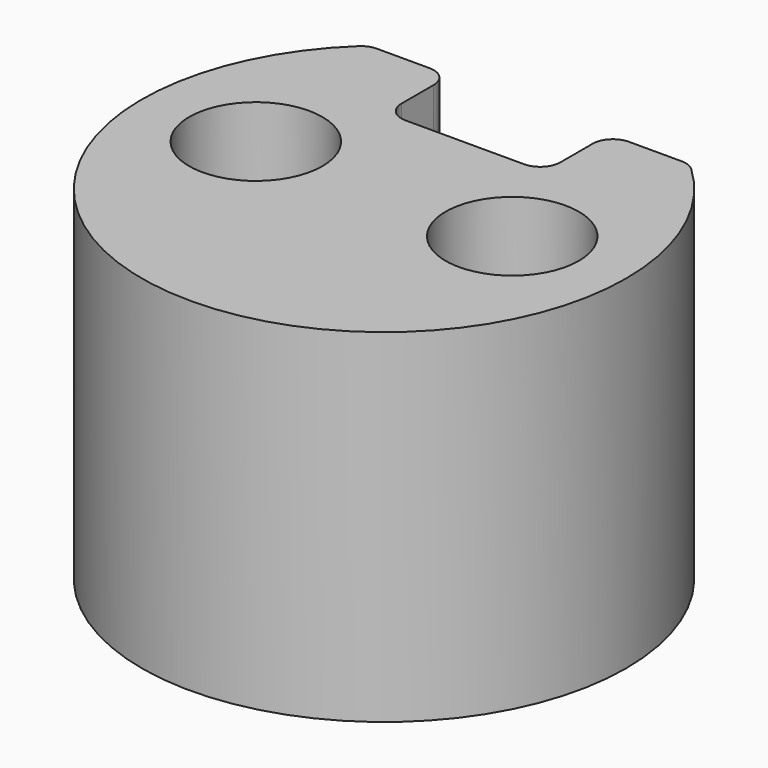
from build123d import *

# Parameters (mm, degrees)
F0_R     = 6
F0_R_2   = 1.65
F1_DEPTH = 3
F2_R     = 6
F3_DEPTH = 5.5
F5_DEPTH = 3
F6_R     = 0.5
F7_R     = 2.4
F8_DEPTH = 5


with BuildPart() as f1:
    # F0 (on Top) → F1 (new body)
    with BuildSketch(Plane.XY):
        Circle(F0_R)
        with Locations((-3.175, 0)):
            Circle(F0_R_2, mode=Mode.SUBTRACT)
        with Locations((3.175, 0)):
            Circle(F0_R_2, mode=Mode.SUBTRACT)
    extrude(amount=F1_DEPTH)

    # F2 (on face) → F3 (join)
    with BuildSketch(Plane(origin=(0, 0, 0), x_dir=(1, 0, 0), z_dir=(0, 0, -1))):
        Circle(F2_R)
    extrude(amount=F3_DEPTH)

    # F4 (on face) → F5 (cut)
    with BuildSketch(Plane.XY.offset(3)):
        with BuildLine():
            ThreePointArc((3.968627, 4.5), (0, 6), (-3.968627, 4.5))
            Line((-3.968627, 4.5), (-1.968627, 4.5))
            Line((-1.968627, 4.5), (-1.968627, 2.5))
            Line((-1.968627, 2.5), (1.968627, 2.5))
            Line((1.968627, 2.5), (1.968627, 4.5))
            Line((1.968627, 4.5), (3.968627, 4.5))
        make_face()
    extrude(amount=-F5_DEPTH, mode=Mode.SUBTRACT)

    # F6
    f6_edges = [f1.edges().sort_by_distance(p)[0] for p in [
        (-3.968627, 4.5, 1.5),
        (-1.968627, 4.5, 1.5),
        (1.968627, 2.5, 1.5),
        (1.968627, 4.5, 1.5),
        (3.968627, 4.5, 1.5),
        (-1.968627, 2.5, 1.5),
    ]]
    fillet(f6_edges, radius=F6_R)

    # F7 (on face) → F8 (cut)
    with BuildSketch(Plane(origin=(0, 0, -5.5), x_dir=(1, 0, 0), z_dir=(0, 0, -1))):
        Circle(F7_R)
    extrude(amount=-F8_DEPTH, mode=Mode.SUBTRACT)


solid = f1.part
